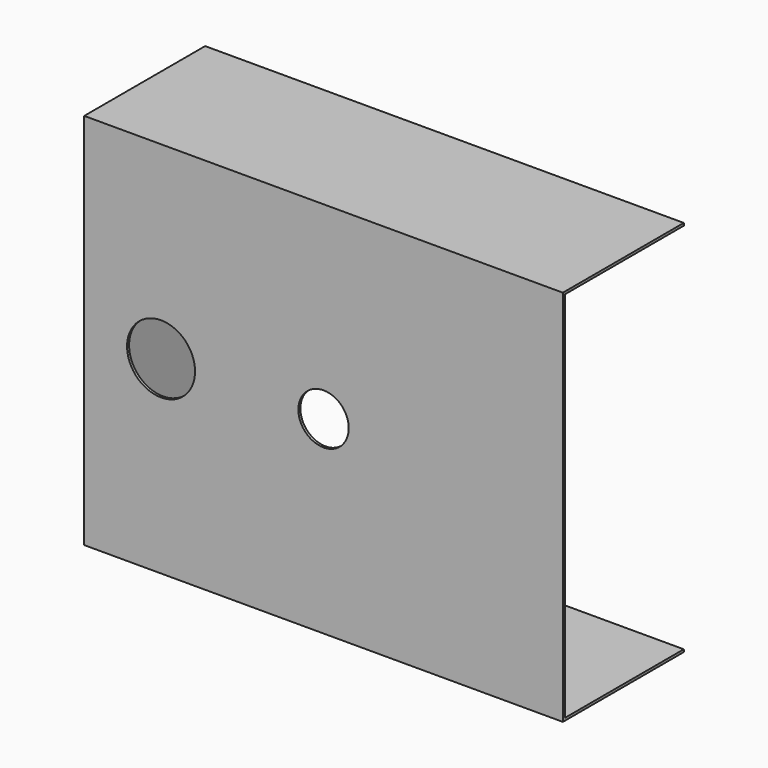
from build123d import *

# Parameters (mm, degrees)
F0_W     = 48.26
F0_H     = 38.1
F1_DEPTH = 15.24
F3_T     = -0.254
F4_D     = 6.858
F6_D     = 5.08


with BuildPart() as f1:
    # F0 (on Front) → F1 (new body)
    with BuildSketch(Plane.XZ):
        Rectangle(F0_W, F0_H)
    extrude(amount=F1_DEPTH)

    # F3
    f3_openings = [f1.faces().sort_by_distance(p)[0] for p in [
        (0, 0, 0),
        (24.13, -7.62, 0),
    ]]
    offset(amount=F3_T, openings=f3_openings)

    # F4 (through all)
    with Locations(Plane.XZ.offset(15.24)):
        with Locations((-16.383, 0)):
            Hole(F4_D / 2)

    # F6 (through all)
    with Locations(Plane.XZ.offset(15.24)):
        with Locations((0, 0)):
            Hole(F6_D / 2)


solid = f1.part
